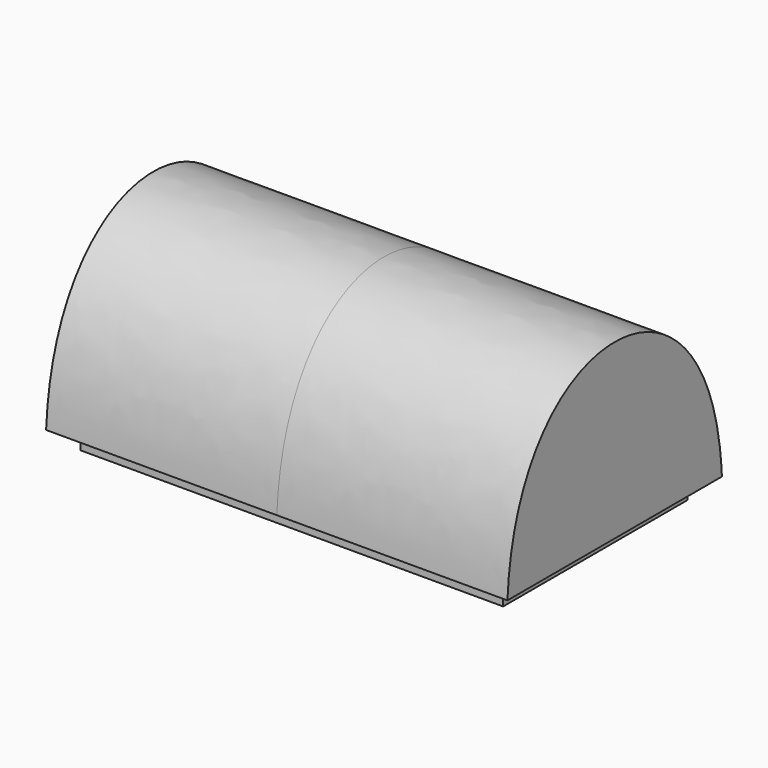
from build123d import *

# Parameters (mm, degrees)
F1_DEPTH = 76.2
F2_DEPTH = 76.2
F3_W     = 139.7
F3_H     = 76.2
F4_DEPTH = 6.35


with BuildPart() as f1:
    # F0 (on Right) → F1 (new body)
    with BuildSketch(Plane.YZ):
        with BuildLine():
            Line((-44.45, 0), (44.45, 0))
            add(Edge.make_bspline(
                [(0, 63.5), (22.225, 63.5), (44.45, 43.3620624244), (44.45, 0)],
                knots=[0.5, 0.5, 0.5, 0.5, 1, 1, 1, 1], degree=3))
            add(Edge.make_bspline(
                [(-44.45, 0), (-44.45, 43.3620624244), (-22.225, 63.5), (0, 63.5)],
                knots=[0, 0, 0, 0, 0.5, 0.5, 0.5, 0.5], degree=3))
        make_face()
    extrude(amount=F1_DEPTH)

    # F2 (add): a face of the model
    f2_faces = [f1.faces().sort_by_distance(p)[0] for p in [
        (0, 0, 27.2904966015),
    ]]
    extrude(f2_faces, amount=F2_DEPTH)

    # F3 (on face) → F4 (cut)
    with BuildSketch(Plane(origin=(0, 0, 0), x_dir=(1, 0, 0), z_dir=(0, 0, -1))):
        Polygon((76.2, -44.45), (76.2, 44.45), (0, 44.45), (-76.2, 44.45), (-76.2, -44.45), (0, -44.45), align=None)
        Rectangle(F3_W, F3_H, mode=Mode.SUBTRACT)
    extrude(amount=-F4_DEPTH, mode=Mode.SUBTRACT)


solid = f1.part
